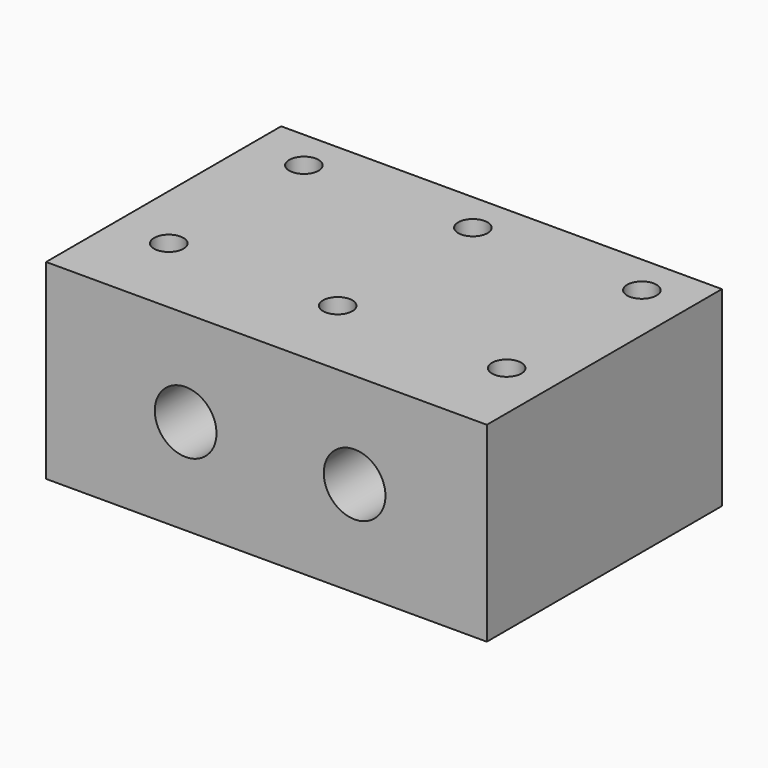
from build123d import *

# Parameters (mm, degrees)
SKETCH_W        = 30
SKETCH_H        = 20
PAD_DEPTH       = 13
SKETCH001_R     = 1
POCKET_DEPTH    = 13.001
SKETCH002_R     = 4
POCKET001_DEPTH = 8
SKETCH003_R     = 2.1
POCKET002_DEPTH = 20.001


with BuildPart() as part:
    # Sketch → Pad (new body)
    with BuildSketch(Plane.XY):
        Rectangle(SKETCH_W, SKETCH_H)
    extrude(amount=PAD_DEPTH)

    # Sketch001 (on Face6 of Pad) → Pocket (cut, through all)
    with BuildSketch(Plane.XY.offset(13)):
        with Locations((-11.25, 7.25)):
            Circle(SKETCH001_R)
        with Locations((0.25, 7.25)):
            Circle(SKETCH001_R)
        with Locations((-11.25, -4.25)):
            Circle(SKETCH001_R)
        with Locations((0.25, -4.25)):
            Circle(SKETCH001_R)
        with Locations((11.75, 7.25)):
            Circle(SKETCH001_R)
        with Locations((11.75, -4.25)):
            Circle(SKETCH001_R)
    extrude(amount=-POCKET_DEPTH, mode=Mode.SUBTRACT)

    # Sketch002 (on Face4 of Pocket) → Pocket001 (cut)
    with BuildSketch(Plane(origin=(0, 0, 0), x_dir=(1, 0, 0), z_dir=(0, 0, -1))):
        with Locations((-5.5, -1.5)):
            Circle(SKETCH002_R)
    extrude(amount=-POCKET001_DEPTH, mode=Mode.SUBTRACT)

    # Sketch003 (on Face1 of Pocket001) → Pocket002 (cut, through all)
    with BuildSketch(Plane(origin=(0, 10, 0), x_dir=(-1, 0, 0), z_dir=(0, 1, 0))):
        with Locations((5.5, 6.5)):
            Circle(SKETCH003_R)
        with Locations((-6, 6.5)):
            Circle(SKETCH003_R)
    extrude(amount=-POCKET002_DEPTH, mode=Mode.SUBTRACT)


solid = part.part
